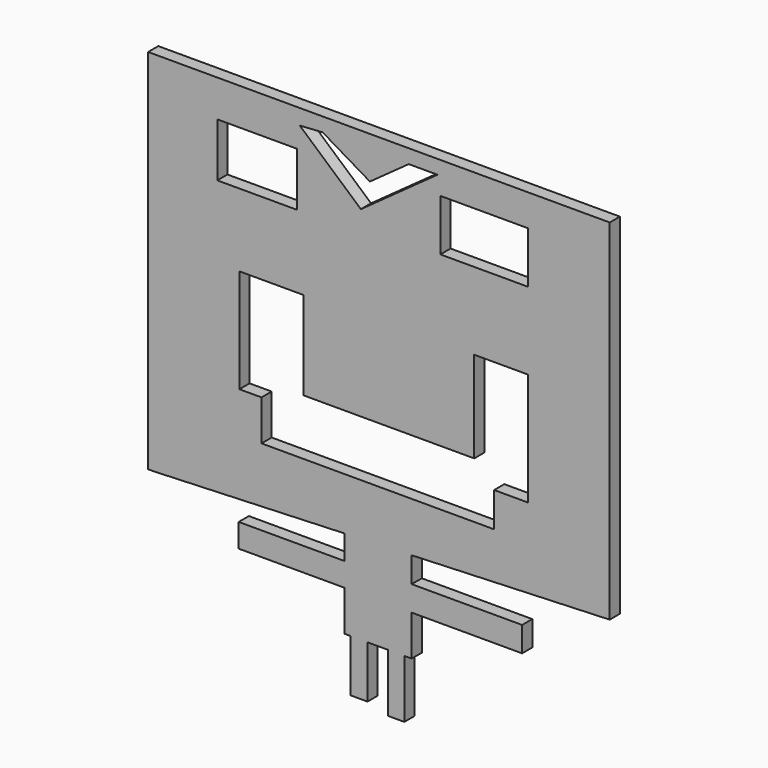
from build123d import *

# Parameters (mm, degrees)
F0_W     = 3.9895381778
F0_H     = 12.3155266047
F0_W_2   = 3.8160792319
F0_H_2   = 13.7031897902
F0_W_3   = 24.9779764563
F0_H_3   = 5.550660193
F0_W_4   = 26.0187210515
F0_H_4   = 5.897577852
F0_H_5   = 3.1222477555
F0_H_6   = 2.2549591959
F0_W_5   = 2.2549559362
F0_W_6   = 3.8160814438
F0_W_7   = 18.7334809452
F0_H_7   = 12.6624442637
F0_W_8   = 20.6415196881
F0_H_8   = 12.1420696378
F1_DEPTH = 3


with BuildPart() as f1:
    # F0 (on Front) → F1 (new body)
    with BuildSketch(Plane.XZ):
        with Locations((-5.6373900734, -65.0468096137)):
            Rectangle(F0_W, F0_H)
        with Locations((3.1222468824, -65.7406412065)):
            Rectangle(F0_W_2, F0_H_2)
        with Locations((-21.508811973, -46.5735159814)):
            Rectangle(F0_W_3, F0_H_3)
        with Locations((19.7742297314, -46.4000571519)):
            Rectangle(F0_W_4, F0_H_4)
        Polygon((-9.0198237449, -34.7783602774), (-9.0198237449, -38.0706993256), (6.7648692057, -37.4577013494), (6.7648692057, -34.7783602774), align=None)
        with Locations((-5.6373900734, -57.3279224336)):
            Rectangle(F0_W, F0_H_5)
        with Locations((3.1222468824, -57.7615667135)):
            Rectangle(F0_W_2, F0_H_6)
        with Locations((-7.8923457768, -46.5735159814)):
            Rectangle(F0_W_5, F0_H_3)
        with Locations((4.8568284838, -46.4000571519)):
            Rectangle(F0_W_6, F0_H_4)
        Polygon((6.7648692057, -37.4577013494), (-9.0198237449, -38.0706993256), (-9.0198237449, -43.798185885), (-6.7648678087, -43.798185885), (-6.7648678087, -49.3488460779), (-9.0198237449, -49.3488460779), (-9.0198237449, -58.8890463114), (-7.6321591623, -58.8890463114), (-7.6321591623, -55.7667985559), (-3.6426209845, -55.7667985559), (-3.6426209845, -58.8890463114), (1.2142072665, -58.8890463114), (1.2142072665, -56.6340871155), (5.0302864984, -56.6340871155), (5.0302864984, -58.8890463114), (6.7648692057, -58.8890463114), (6.7648692057, -49.3488460779), (2.9487877619, -49.3488460779), (2.9487877619, -43.4512682259), (6.7648692057, -43.4512682259), align=None)
        Polygon((-55.3331524134, 46.7469729483), (-55.3331524134, -39.8086495697), (-53.7720285356, -39.8086495697), (-9.0198237449, -38.0706993256), (-9.0198237449, -34.7783602774), (6.7648692057, -34.7783602774), (6.7648692057, -37.4577013494), (53.4251108766, -35.6456525624), (53.4251108766, 46.7469729483), align=None)
        with Locations((-29.6613452956, 31.742842868)):
            Rectangle(F0_W_7, F0_H_7, mode=Mode.SUBTRACT)
        Polygon((-5.2037448622, 30.4419063032), (-19.6007713675, 43.1043542922), (-14.2235690728, 43.4512682259), (-3.0722282925, 36.8575679841), (6.0710357502, 43.4512682259), (12.8359030932, 43.4512682259), align=None, mode=Mode.SUBTRACT)
        Polygon((-33.824339509, -16.2183362991), (-33.824339509, 8.2392627373), (-18.7334809452, 8.2392627373), (-18.7334809452, -12.5757167116), (21.5088110417, -12.5757167116), (21.5088110417, 8.9330952615), (34.1712571681, 8.9330952615), (34.1712571681, -17.6060032099), (26.192182675, -17.6060032099), (26.192182675, -25.7585346699), (-28.6205969751, -25.7585346699), (-28.6205969751, -16.2183362991), align=None, mode=Mode.SUBTRACT)
        with Locations((23.850497324, 33.2172363997)):
            Rectangle(F0_W_8, F0_H_8, mode=Mode.SUBTRACT)
    extrude(amount=F1_DEPTH)


solid = f1.part
